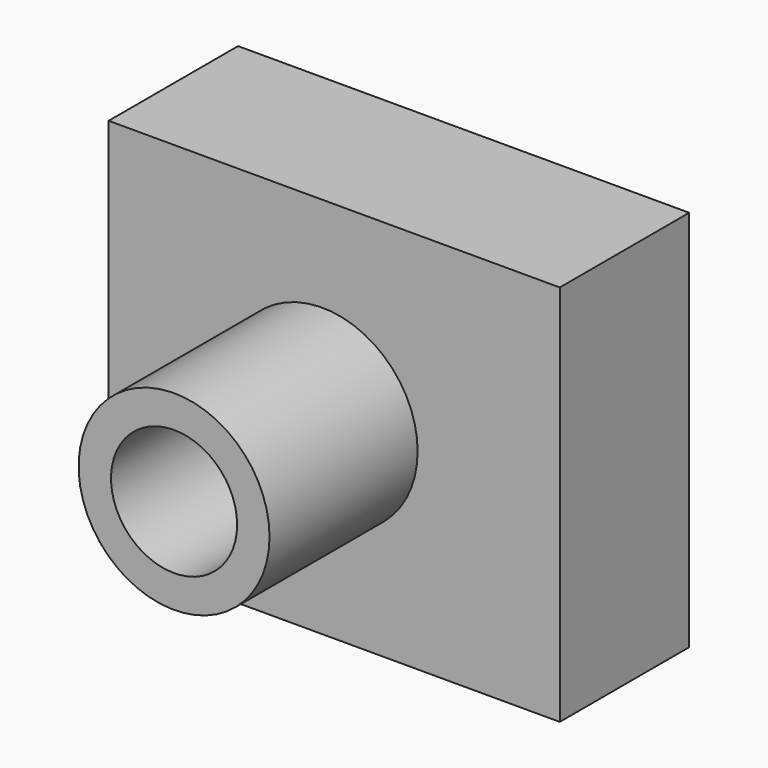
from build123d import *

# Parameters (mm, degrees)
F1_W     = 68.710876
F1_H     = 58.25431
F1_R     = 14.537738
F2_DEPTH = 24.638
F1_R_2   = 9.600701
F3_DEPTH = 28.194


with BuildPart() as f2:
    # F1 (on face) → F2 (new body)
    with BuildSketch(Plane.XZ):
        with Locations((1.832287, 11.33592)):
            Rectangle(F1_W, F1_H)
        with Locations((0, 11.451812)):
            Circle(F1_R, mode=Mode.SUBTRACT)
    extrude(amount=-F2_DEPTH)


with BuildPart() as f3:
    # F1 (on face) → F3 (new body)
    with BuildSketch(Plane.XZ):
        with Locations((0, 11.451812)):
            Circle(F1_R)
        with Locations((0, 11.451812)):
            Circle(F1_R_2, mode=Mode.SUBTRACT)
    extrude(amount=F3_DEPTH)


solid = Compound([f2.part, f3.part])
